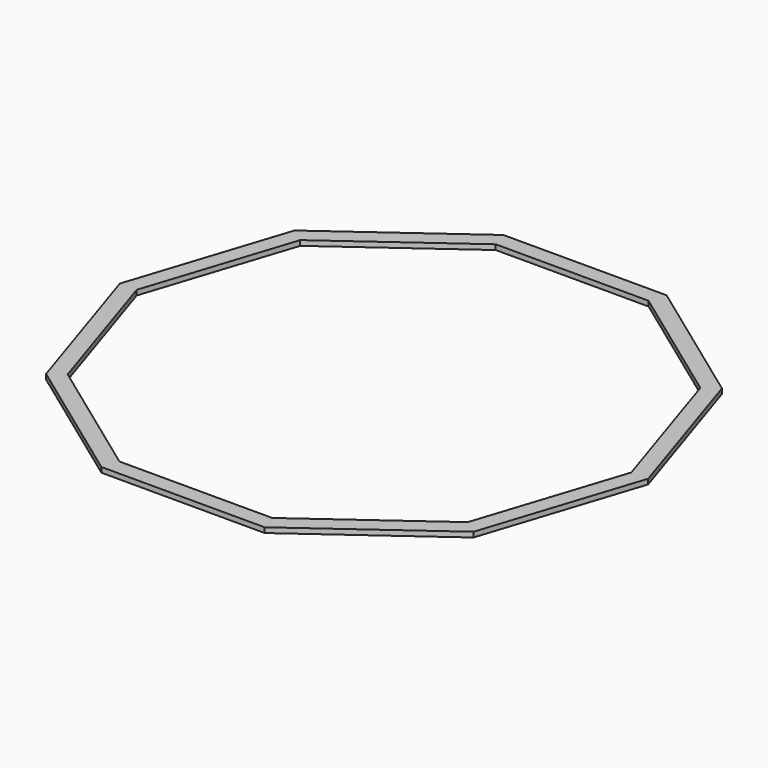
from build123d import *

# Parameters (mm, degrees)
F1_DEPTH = 38.1


with BuildPart() as f1:
    # F0 (on Top) → F1 (new body)
    with BuildSketch(Plane.XY):
        Polygon((613.813921, 1889.125), (-613.813921, 1889.125), (-1606.985708, 1167.543459), (-1986.343574, 0), (-1606.985708, -1167.543459), (-613.813921, -1889.125), (613.813921, -1889.125), (1606.985708, -1167.543459), (1986.343574, 0), (1606.985708, 1167.543459), align=None)
        Polygon((-1504.354688, 1092.977658), (-574.61236, 1768.475), (574.61236, 1768.475), (1504.354688, 1092.977658), (1859.484657, 0), (1504.354688, -1092.977658), (574.61236, -1768.475), (-574.61236, -1768.475), (-1504.354688, -1092.977658), (-1859.484657, 0), align=None, mode=Mode.SUBTRACT)
    extrude(amount=F1_DEPTH)


solid = f1.part
